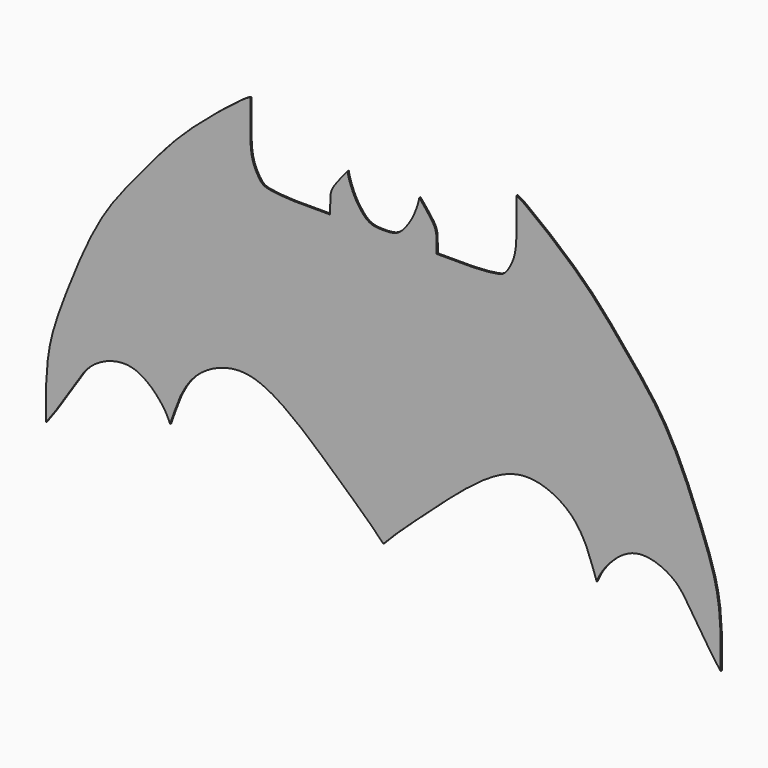
from build123d import *

# Parameters (mm, degrees)
F2_DEPTH = 0.125


with BuildPart() as f2:
    # F1 (on offset) → F2 (new body)
    with BuildSketch(Plane.XZ.offset(38)):
        with BuildLine():
            add(Edge.make_bspline(
                [(-27.3476754247, 63.0246619321), (-27.3672520646, 63.9576542445), (-27.4075444341, 65.8779261226), (-27.0855132224, 69.0614393357), (-25.8575998649, 72.4270701251), (-24.4658338877, 75.9040444219), (-22.5508546968, 79.8248515279), (-19.193083781, 83.7648022123), (-16.3099442066, 87.3030562237), (-11.357058226, 91.209673657), (-11.0022914003, 91.2954621915), (-10.936129613, 91.311461215)],
                knots=[0, 0, 0, 0, 0.0997388767, 0.205281177, 0.3170669566, 0.4316816553, 0.5554886366, 0.687860813, 0.8234472119, 0.9670740126, 1, 1, 1, 1], degree=3))
            add(Edge.make_bspline(
                [(-27.3476754247, 63.0246619321), (-26.7461043356, 63.7697398475), (-24.9266814731, 66.6222945265), (-23.6740531483, 68.5827168609), (-20.3105548759, 69.7949443253), (-17.9232449602, 67.3104272411), (-17.5430867337, 66.4922923237), (-17.3972456203, 66.1242574452)],
                knots=[0, 0, 0, 0, 0.2478849849, 0.4403978356, 0.6506722668, 0.8629704481, 1, 1, 1, 1], degree=3))
            add(Edge.make_bspline(
                [(-17.3972456203, 66.1242574452), (-17.2350024136, 66.517906582), (-17.0039310916, 67.3569306359), (-15.8055151021, 70.3588419242), (-12.1444260413, 72.1830428426), (-8.6140442847, 70.9184594895), (-4.3135911477, 67.0446091747), (-1.4750071147, 64.475214366), (-0.5934401025, 63.5822325645), (-0.2598327037, 63.2193444188)],
                knots=[0, 0, 0, 0, 0.0912907011, 0.232909175, 0.3889796109, 0.5408065453, 0.7376965869, 0.8967209358, 1, 1, 1, 1], degree=3))
            add(Edge.make_bspline(
                [(16.8775802128, 66.1242574452), (16.7153370061, 66.517906582), (16.4842656842, 67.3569306359), (15.2858496947, 70.3588419242), (11.6247606339, 72.1830428426), (8.0943788773, 70.9184594895), (3.7939257402, 67.0446091747), (0.9553417072, 64.475214366), (0.073774695, 63.5822325645), (-0.2598327037, 63.2193444188)],
                knots=[0, 0, 0, 0, 0.0912907011, 0.232909175, 0.3889796109, 0.5408065453, 0.7376965869, 0.8967209358, 1, 1, 1, 1], degree=3))
            add(Edge.make_bspline(
                [(26.8280100172, 63.0246619321), (26.2264389281, 63.7697398475), (24.4070160656, 66.6222945265), (23.1543877408, 68.5827168609), (19.7908894684, 69.7949443253), (17.4035795527, 67.3104272411), (17.0234213262, 66.4922923237), (16.8775802128, 66.1242574452)],
                knots=[0, 0, 0, 0, 0.2478849849, 0.4403978356, 0.6506722668, 0.8629704481, 1, 1, 1, 1], degree=3))
            add(Edge.make_bspline(
                [(26.8280100172, 63.0246619321), (26.8475866571, 63.9576542445), (26.8878790266, 65.8779261226), (26.565847815, 69.0614393357), (25.3379344574, 72.4270701251), (23.9461684802, 75.9040444219), (22.0311892893, 79.8248515279), (18.6734183735, 83.7648022123), (15.7902787991, 87.3030562237), (10.8373928186, 91.209673657), (10.4826259929, 91.2954621915), (10.4164642055, 91.311461215)],
                knots=[0, 0, 0, 0, 0.0997388767, 0.205281177, 0.3170669566, 0.4316816553, 0.5554886366, 0.687860813, 0.8234472119, 0.9670740126, 1, 1, 1, 1], degree=3))
            add(Edge.make_bspline(
                [(10.4164642055, 91.311461215), (10.4405336164, 90.0597899527), (10.4758761161, 88.2314956633), (10.2698948197, 86.7412943545), (9.6353295808, 85.6177442654), (8.9398253308, 85.1404535683), (6.1055103752, 85.0625351899), (4.0153607385, 85.1169720806)],
                knots=[0, 0, 0, 0, 0.2491831435, 0.4188869753, 0.5695257095, 0.6873049334, 1, 1, 1, 1], degree=3))
            add(Edge.make_bspline(
                [(4.0153607385, 85.1169720806), (4.0286427583, 85.4219670124), (4.0241651373, 86.1248452433), (3.9665321835, 86.9689898545), (3.1777994484, 87.9759379856), (2.8008802274, 88.4223995815), (2.6230341514, 88.6312380985)],
                knots=[0, 0, 0, 0, 0.2513304217, 0.4840638645, 0.7643420388, 1, 1, 1, 1], degree=3))
            add(Edge.make_bspline(
                [(2.6230341514, 88.6312380985), (2.5713023701, 88.2696587841), (2.1996171152, 87.2029859558), (1.6997387803, 86.3959295677), (0.9186607969, 85.4280012054), (0.1468636395, 85.4045778904), (-0.2598327037, 85.4010403242)],
                knots=[0, 0, 0, 0, 0.2759686461, 0.5102049533, 0.7544949989, 1, 1, 1, 1], degree=3))
            add(Edge.make_bspline(
                [(-3.1426995588, 88.6312380985), (-3.0909677775, 88.2696587841), (-2.7192825227, 87.2029859558), (-2.2194041877, 86.3959295677), (-1.4383262044, 85.4280012054), (-0.666529047, 85.4045778904), (-0.2598327037, 85.4010403242)],
                knots=[0, 0, 0, 0, 0.2759686461, 0.5102049533, 0.7544949989, 1, 1, 1, 1], degree=3))
            add(Edge.make_bspline(
                [(-4.5350261459, 85.1169720806), (-4.5483081658, 85.4219670124), (-4.5438305447, 86.1248452433), (-4.486197591, 86.9689898545), (-3.6974648558, 87.9759379856), (-3.3205456349, 88.4223995815), (-3.1426995588, 88.6312380985)],
                knots=[0, 0, 0, 0, 0.2513304217, 0.4840638645, 0.7643420388, 1, 1, 1, 1], degree=3))
            add(Edge.make_bspline(
                [(-10.936129613, 91.311461215), (-10.9601990239, 90.0597899527), (-10.9955415236, 88.2314956633), (-10.7895602271, 86.7412943545), (-10.1549949882, 85.6177442654), (-9.4594907383, 85.1404535683), (-6.6251757827, 85.0625351899), (-4.5350261459, 85.1169720806)],
                knots=[0, 0, 0, 0, 0.2491831435, 0.4188869753, 0.5695257095, 0.6873049334, 1, 1, 1, 1], degree=3))
        make_face()
    extrude(amount=F2_DEPTH)


solid = f2.part
